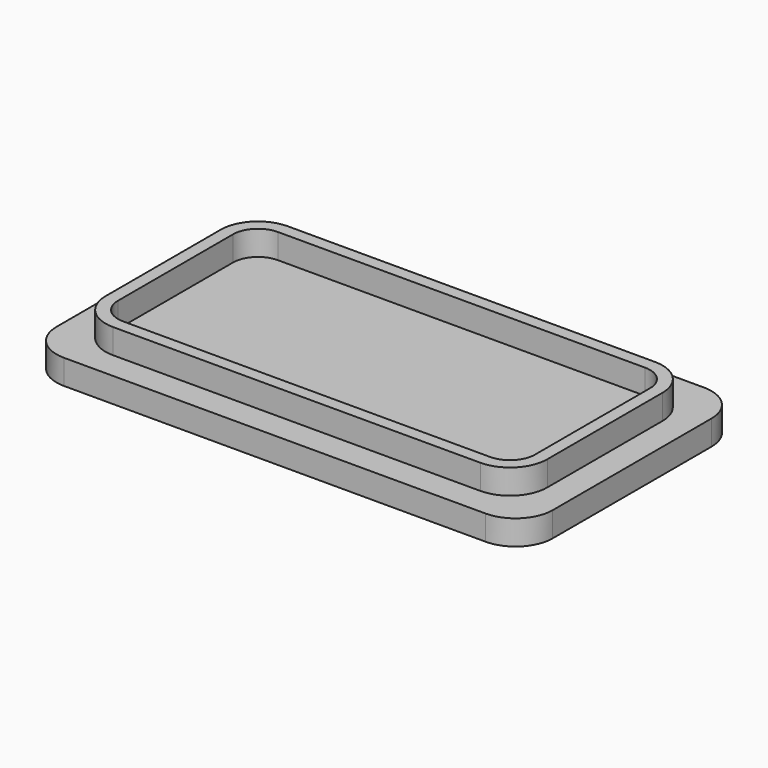
from build123d import *

# Parameters (mm, degrees)
F0_W     = 50.8
F0_H     = 27.94
F1_DEPTH = 2.54
F2_R     = 3.81
F4_DEPTH = 2.54


with BuildPart() as f1:
    # F0 (on Top) → F1 (new body)
    with BuildSketch(Plane.XY):
        Rectangle(F0_W, F0_H)
    extrude(amount=F1_DEPTH)

    # F2
    f2_edges = [f1.edges().sort_by_distance(p)[0] for p in [
        (-25.4, 13.97, 1.27),
        (25.4, 13.97, 1.27),
        (-25.4, -13.97, 1.27),
        (25.4, -13.97, 1.27),
    ]]
    fillet(f2_edges, radius=F2_R)

    # F3 (on face) → F4 (join)
    with BuildSketch(Plane.XY.offset(2.54)):
        with BuildLine():
            Line((-18.796, -11.176), (18.796, -11.176))
            ThreePointArc((18.796, -11.176), (21.490077, -10.060077), (22.606, -7.366))
            Line((22.606, -7.366), (22.606, 7.366))
            ThreePointArc((22.606, 7.366), (21.490077, 10.060077), (18.796, 11.176))
            Line((18.796, 11.176), (-18.796, 11.176))
            ThreePointArc((-18.796, 11.176), (-21.490077, 10.060077), (-22.606, 7.366))
            Line((-22.606, 7.366), (-22.606, -7.366))
            ThreePointArc((-22.606, -7.366), (-21.490077, -10.060077), (-18.796, -11.176))
        make_face()
        with BuildLine():
            ThreePointArc((18.796, 9.906), (20.592051, 9.162051), (21.336, 7.366))
            Line((21.336, 7.366), (21.336, -7.366))
            ThreePointArc((21.336, -7.366), (20.592051, -9.162051), (18.796, -9.906))
            Line((18.796, -9.906), (-18.796, -9.906))
            ThreePointArc((-18.796, -9.906), (-20.592051, -9.162051), (-21.336, -7.366))
            Line((-21.336, -7.366), (-21.336, 7.366))
            ThreePointArc((-21.336, 7.366), (-20.592051, 9.162051), (-18.796, 9.906))
            Line((-18.796, 9.906), (18.796, 9.906))
        make_face(mode=Mode.SUBTRACT)
    extrude(amount=F4_DEPTH)


solid = f1.part
